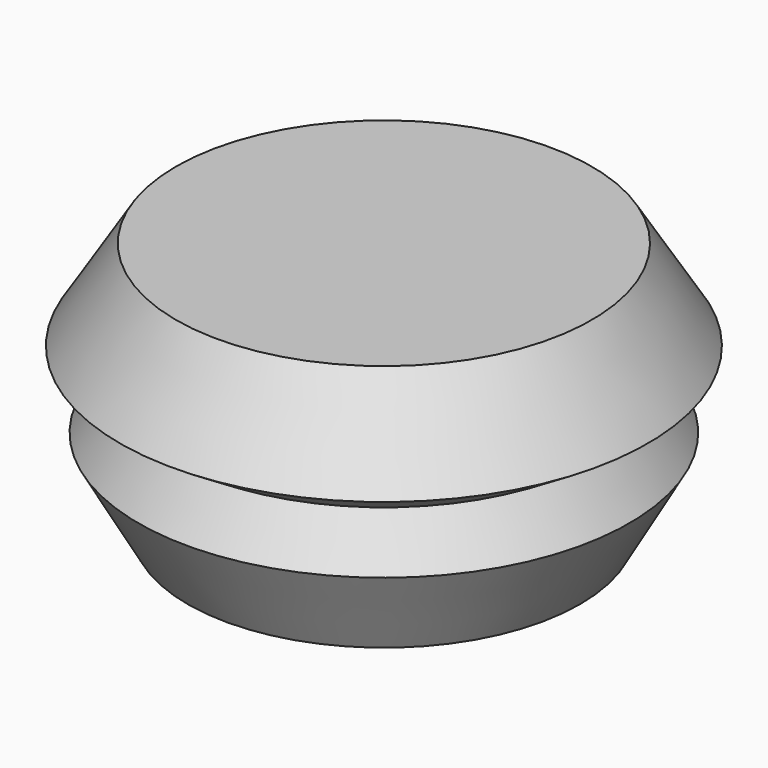
from build123d import *

# Parameters (mm, degrees)
F3_DEPTH = 31.425066


with BuildPart() as f1:
    # F0 (on Front) → F1 (revolve)
    with BuildSketch(Plane.XZ):
        Polygon((-13.516411, 0), (0, 20.836398), (0, 55.057584), (-45.065452, 55.057584), (-57.232707, 35.454785), (-46.926215, 29.057652), (-53.223349, 18.912271), (-42.553209, 0), align=None)
    revolve(axis=Axis((0, 0, 37.946991), (0, 0, -1)))

    # F2 (on face) → F3 (join)
    with BuildSketch(Plane.XY.offset(55.057584)):
        Polygon((-21.350675, 35.578321), (-41.487068, -0.701066), (-20.136393, -36.279387), (21.350675, -35.578321), (41.487068, 0.701066), (20.136393, 36.279387), align=None)
    extrude(amount=-F3_DEPTH)


solid = f1.part
